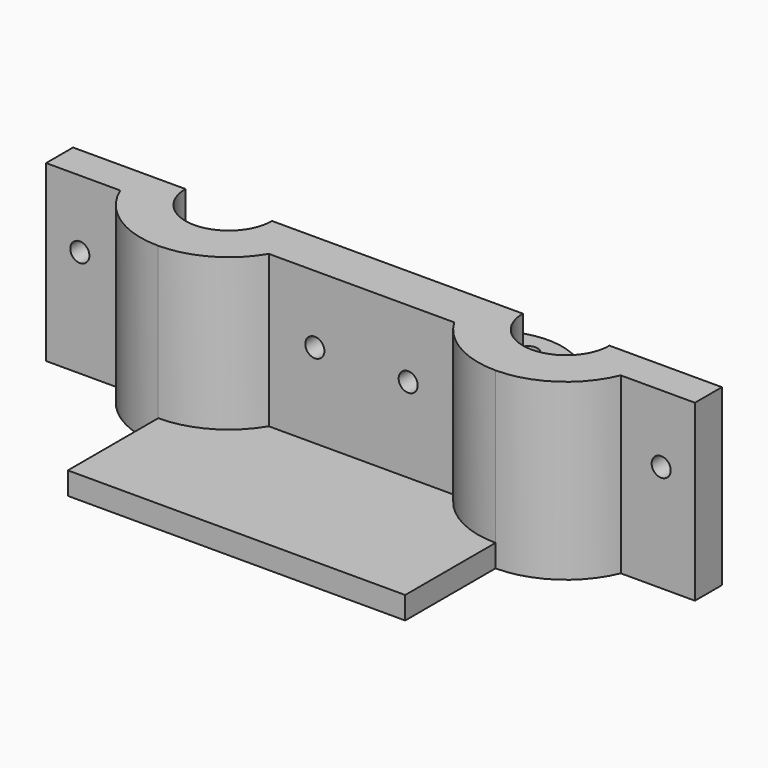
from build123d import *

# Parameters (mm, degrees)
F1_DEPTH = 31
F0_R     = 1.7
F0_R_2   = 5.2
F2_DEPTH = 6
F3_DEPTH = 4
F4_R     = 1.7
F5_DEPTH = 25


with BuildPart() as f1:
    # F0 (on Top) → F1 (new body)
    with BuildSketch(Plane.XY):
        with BuildLine():
            Line((12.6856816933, 0), (0, 0))
            Line((0, 0), (-12.6856816933, 0))
            Line((-12.6856816933, 0), (-22.3, 0))
            ThreePointArc((-22.3, 0), (-30, -7.7), (-37.7, 0))
            Line((-37.7, 0), (-45.7, 0))
            Line((-45.7, 0), (-57.7, 0))
            Line((-57.7, 0), (-57.7, -6))
            Line((-57.7, -6), (-44.5082735017, -6))
            ThreePointArc((-44.5082735017, -6), (-38.7261102445, -13.0516282509), (-30, -15.7))
            ThreePointArc((-30, -15.7), (-22.2253617447, -13.6398313773), (-16.4911140356, -8))
            Line((-16.4911140356, -8), (16.4911140356, -8))
            ThreePointArc((16.4911140356, -8), (22.2253617447, -13.6398313773), (30, -15.7))
            ThreePointArc((30, -15.7), (38.7261102445, -13.0516282509), (44.5082735017, -6))
            Line((44.5082735017, -6), (57.7, -6))
            Line((57.7, -6), (57.7, 0))
            Line((57.7, 0), (45.7, 0))
            Line((45.7, 0), (37.7, 0))
            ThreePointArc((37.7, 0), (30, -7.7), (22.3, 0))
            Line((22.3, 0), (12.6856816933, 0))
        make_face()
    extrude(amount=F1_DEPTH)

    # F0 (on Top) → F2 (join)
    with BuildSketch(Plane.XY):
        with BuildLine():
            Line((-12.6856816933, 0), (0, 0))
            Line((0, 0), (12.6856816933, 0))
            add(Edge.make_bspline(
                [(12.6856816933, 0), (12.3905999996, 2.441927908), (11.7188705001, 7.9681514968), (12.2103184435, 15.8432101865), (12.4767993137, 20.2387648954)],
                knots=[0, 0, 0, 0, 0.4418916914, 1, 1, 1, 1], degree=3))
            ThreePointArc((12.4767993137, 20.2387648954), (0, 33.5), (-12.4767993137, 20.2387648954))
            add(Edge.make_bspline(
                [(-12.6856816933, 0), (-12.3905999996, 2.441927908), (-11.7188705001, 7.9681514968), (-12.2103184435, 15.8432101865), (-12.4767993137, 20.2387648954)],
                knots=[0, 0, 0, 0, 0.4418916914, 1, 1, 1, 1], degree=3))
        make_face()
        with Locations((-8, 21)):
            Circle(F0_R, mode=Mode.SUBTRACT)
        with Locations((0, 13)):
            Circle(F0_R, mode=Mode.SUBTRACT)
        with Locations((0, 21)):
            Circle(F0_R_2, mode=Mode.SUBTRACT)
        with Locations((8, 21)):
            Circle(F0_R, mode=Mode.SUBTRACT)
        with Locations((0, 29)):
            Circle(F0_R, mode=Mode.SUBTRACT)
    extrude(amount=F2_DEPTH)

    # F0 (on Top) → F3 (join)
    with BuildSketch(Plane.XY):
        with BuildLine():
            ThreePointArc((-16.4911140356, -8), (-22.2253617447, -13.6398313773), (-30, -15.7))
            Line((-30, -15.7), (-30, -35.7866361737))
            Line((-30, -35.7866361737), (30, -35.7866361737))
            Line((30, -35.7866361737), (30, -15.7))
            ThreePointArc((30, -15.7), (22.2253617447, -13.6398313773), (16.4911140356, -8))
            Line((16.4911140356, -8), (-16.4911140356, -8))
        make_face()
    extrude(amount=F3_DEPTH)

    # F4 (on face) → F5 (cut)
    with BuildSketch(Plane.XZ.offset(8)):
        with Locations((-51.7, 19)):
            Circle(F4_R)
        with Locations((-8.3, 19)):
            Circle(F4_R)
        with Locations((8.3, 19)):
            Circle(F4_R)
        with Locations((51.7, 19)):
            Circle(F4_R)
    extrude(amount=-F5_DEPTH, mode=Mode.SUBTRACT)


solid = f1.part
